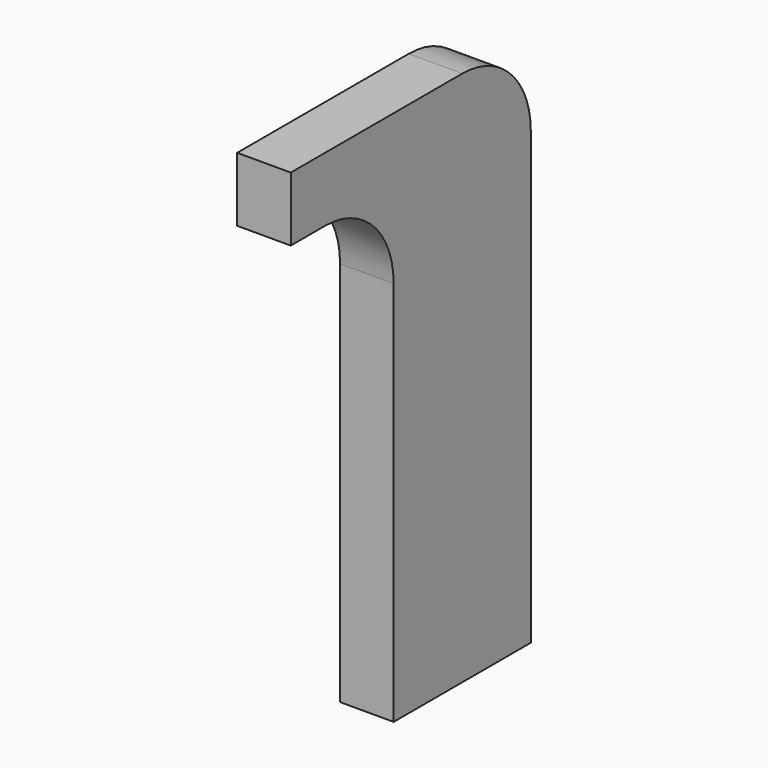
from build123d import *

# Parameters (mm, degrees)
F1_DEPTH = 12.5


with BuildPart() as f1:
    # F0 (on Right) → F1 (new body, symmetric)
    with BuildSketch(Plane.YZ):
        with BuildLine():
            Line((0, 180), (0, 0))
            Line((0, 0), (80, 0))
            Line((80, 0), (80, 210))
            ThreePointArc((80, 210), (68.284271, 238.284271), (40, 250))
            Line((40, 250), (-60, 250))
            Line((-60, 250), (-60, 220))
            Line((-60, 220), (-40, 220))
            ThreePointArc((-40, 220), (-11.715729, 208.284271), (0, 180))
        make_face()
    extrude(amount=F1_DEPTH, both=True)


solid = f1.part
